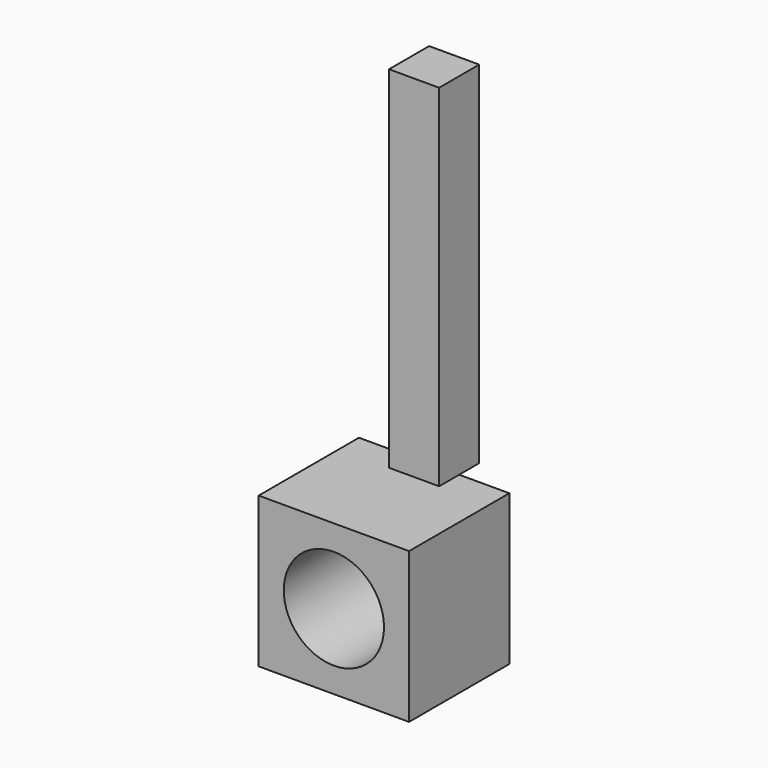
from build123d import *

# Parameters (mm, degrees)
F0_W     = 30
F0_H     = 30
F1_DEPTH = 25
F2_R     = 10
F3_DEPTH = 25
F4_W     = 10
F4_H     = 10
F5_DEPTH = 70


with BuildPart() as f1:
    # F0 (on Front) → F1 (new body)
    with BuildSketch(Plane.XZ):
        Rectangle(F0_W, F0_H)
    extrude(amount=F1_DEPTH)

    # F2 (on face) → F3 (cut)
    with BuildSketch(Plane.XZ.offset(25)):
        Circle(F2_R)
    extrude(amount=-F3_DEPTH, mode=Mode.SUBTRACT)

    # F4 (on face) → F5 (join)
    with BuildSketch(Plane.XY.offset(15)):
        Rectangle(F4_W, F4_H)
    extrude(amount=F5_DEPTH)


solid = f1.part
